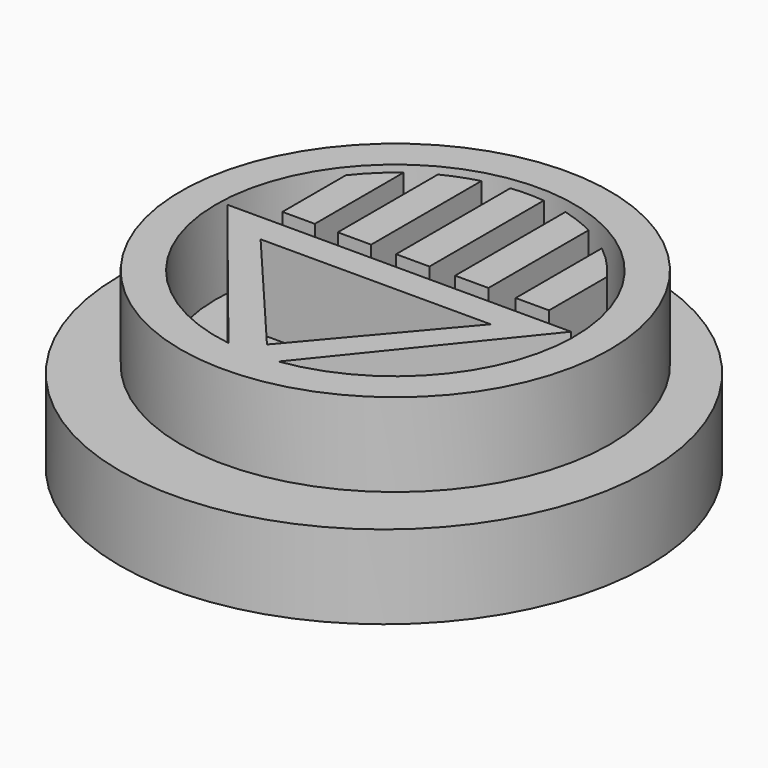
from build123d import *

# Parameters (mm, degrees)
F1_R     = 80.352364
F2_DEPTH = 25.4
F0_R     = 65.256233
F3_DEPTH = 25.4


with BuildPart() as f2:
    # F1 (on Top) → F2 (new body)
    with BuildSketch(Plane.XY):
        with Locations((71.59698, 71.170375)):
            Circle(F1_R)
    extrude(amount=-F2_DEPTH)

    # F0 (on Top) → F3 (join)
    with BuildSketch(Plane.XY):
        with Locations((71.12, 76.078989)):
            Circle(F0_R)
        Polygon((71.12, 68.584077), (106.118642, 68.584077), (71.12, 27.259223), (36.121358, 68.584077), align=None, mode=Mode.SUBTRACT)
        with BuildLine():
            ThreePointArc((63.511492, 22.131525), (71.12, 130.560346), (78.728508, 22.131525))
            Line((78.728508, 22.131525), (123.422146, 77.541195))
            Line((123.422146, 77.541195), (71.12, 77.541195))
            Line((71.12, 77.541195), (18.817854, 77.541195))
            Line((18.817854, 77.541195), (63.511492, 22.131525))
        make_face(mode=Mode.SUBTRACT)
        with BuildLine():
            Line((31.354379, 82.838498), (41.214697, 82.838498))
            Line((41.214697, 82.838498), (41.214697, 116.58243))
            ThreePointArc((41.214697, 116.58243), (35.953768, 112.109421), (31.354379, 106.958615))
            Line((31.354379, 106.958615), (31.354379, 82.838498))
        make_face()
        with BuildLine():
            Line((48.192759, 82.838498), (58.352759, 82.838498))
            Line((58.352759, 82.838498), (58.352759, 124.780667))
            ThreePointArc((58.352759, 124.780667), (53.167759, 123.116984), (48.192759, 120.903062))
            Line((48.192759, 120.903062), (48.192759, 82.838498))
        make_face()
        with BuildLine():
            Line((66.04, 82.709052), (76.2, 82.709052))
            Line((76.2, 82.709052), (76.2, 126.169402))
            ThreePointArc((76.2, 126.169402), (71.12, 126.426342), (66.04, 126.169402))
            Line((66.04, 126.169402), (66.04, 82.709052))
        make_face()
        with BuildLine():
            Line((83.887241, 124.780667), (83.887241, 82.838498))
            Line((83.887241, 82.838498), (94.047241, 82.838498))
            Line((94.047241, 82.838498), (94.047241, 120.903062))
            ThreePointArc((94.047241, 120.903062), (89.072241, 123.116984), (83.887241, 124.780667))
        make_face()
        with BuildLine():
            Line((102.310388, 115.601332), (102.310388, 82.838498))
            Line((102.310388, 82.838498), (112.470388, 82.838498))
            Line((112.470388, 82.838498), (112.470388, 104.801825))
            ThreePointArc((112.470388, 104.801825), (107.79013, 110.577648), (102.310388, 115.601332))
        make_face()
    extrude(amount=F3_DEPTH)


solid = f2.part
